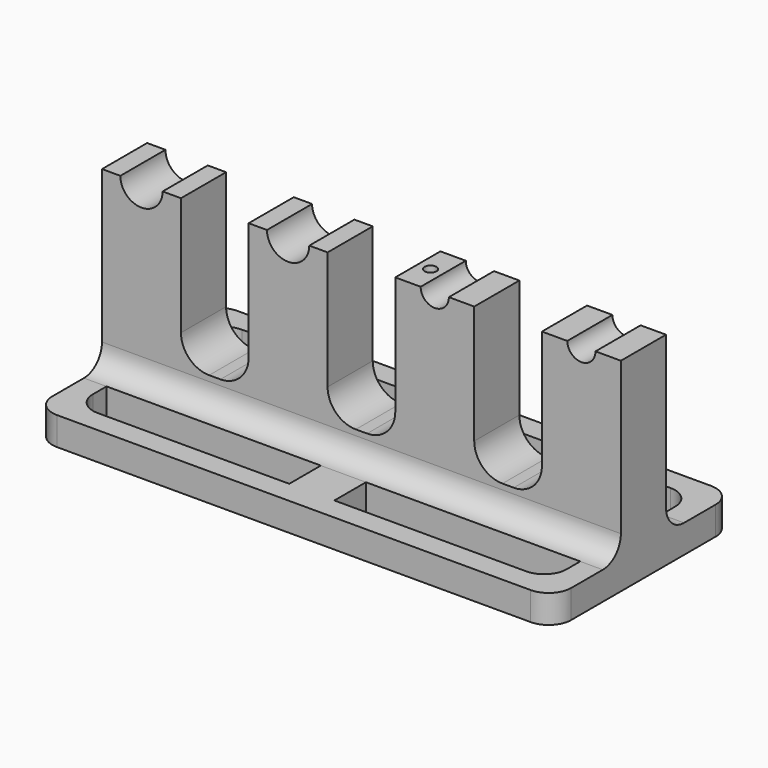
from build123d import *

# Parameters (mm, degrees)
F1_DEPTH = 6.35
F0_W     = 116.84
F0_H     = 6.35
F2_DEPTH = 25.4
F3_R     = 5.08
F4_W     = 48.26
F4_H     = 8.89
F5_DEPTH = 25.4
F6_R     = 5.08
F7_R     = 1.35255
F8_DEPTH = 12.7


with BuildPart() as f1:
    # F0 (on Front) → F1 (new body, symmetric)
    with BuildSketch(Plane.XZ):
        with BuildLine():
            ThreePointArc((4.7625, 0), (0, -4.7625), (-4.7625, 0))
            Line((-4.7625, 0), (-8.89, 0))
            Line((-8.89, 0), (-8.89, -39.37))
            Line((-8.89, -39.37), (107.95, -39.37))
            Line((107.95, -39.37), (107.95, 0))
            Line((107.95, 0), (102.235, 0))
            ThreePointArc((102.235, 0), (99.06, -3.175), (95.885, 0))
            Line((95.885, 0), (90.17, 0))
            Line((90.17, 0), (90.17, -26.67))
            ThreePointArc((90.17, -26.67), (88.310128, -31.160128), (83.82, -33.02))
            Line((83.82, -33.02), (81.28, -33.02))
            ThreePointArc((81.28, -33.02), (76.789872, -31.160128), (74.93, -26.67))
            Line((74.93, -26.67), (74.93, 0))
            Line((74.93, 0), (69.215, 0))
            ThreePointArc((69.215, 0), (66.04, -3.175), (62.865, 0))
            Line((62.865, 0), (57.15, 0))
            Line((57.15, 0), (57.15, -26.67))
            ThreePointArc((57.15, -26.67), (55.290128, -31.160128), (50.8, -33.02))
            Line((50.8, -33.02), (48.26, -33.02))
            ThreePointArc((48.26, -33.02), (43.769872, -31.160128), (41.91, -26.67))
            Line((41.91, -26.67), (41.91, 0))
            Line((41.91, 0), (37.7825, 0))
            ThreePointArc((37.7825, 0), (33.02, -4.7625), (28.2575, 0))
            Line((28.2575, 0), (24.13, 0))
            Line((24.13, 0), (24.13, -26.67))
            ThreePointArc((24.13, -26.67), (22.270128, -31.160128), (17.78, -33.02))
            Line((17.78, -33.02), (15.24, -33.02))
            ThreePointArc((15.24, -33.02), (10.749872, -31.160128), (8.89, -26.67))
            Line((8.89, -26.67), (8.89, 0))
            Line((8.89, 0), (4.7625, 0))
        make_face()
    extrude(amount=F1_DEPTH, both=True)

    # F0 (on Front) → F2 (join, symmetric)
    with BuildSketch(Plane.XZ):
        with Locations((49.53, -42.545)):
            Rectangle(F0_W, F0_H)
    extrude(amount=F2_DEPTH, both=True)

    # F3
    f3_edges = [f1.edges().sort_by_distance(p)[0] for p in [
        (49.53, -6.35, -39.37),
        (49.53, 6.35, -39.37),
        (107.95, -25.4, -42.545),
        (-8.89, -25.4, -42.545),
        (107.95, 25.4, -42.545),
        (-8.89, 25.4, -42.545),
    ]]
    fillet(f3_edges, radius=F3_R)

    # F4 (on face) → F5 (cut)
    with BuildSketch(Plane(origin=(0, 0, -45.72), x_dir=(1, 0, 0), z_dir=(0, 0, -1))):
        with Locations((20.32, 15.875)):
            Rectangle(F4_W, F4_H)
        with Locations((78.74, 15.875)):
            Rectangle(F4_W, F4_H)
        with Locations((78.74, -15.875)):
            Rectangle(F4_W, F4_H)
        with Locations((20.32, -15.875)):
            Rectangle(F4_W, F4_H)
    extrude(amount=-F5_DEPTH, mode=Mode.SUBTRACT)

    # F6
    f6_edges = [f1.edges().sort_by_distance(p)[0] for p in [
        (-3.81, 20.32, -42.545),
        (102.87, 20.32, -42.545),
        (-3.81, -20.32, -42.545),
        (102.87, -20.32, -42.545),
    ]]
    fillet(f6_edges, radius=F6_R)

    # F7 (on face) → F8 (cut)
    with BuildSketch(Plane.XY):
        with Locations((60.0075, 0)):
            Circle(F7_R)
    extrude(amount=-F8_DEPTH, mode=Mode.SUBTRACT)


solid = f1.part
